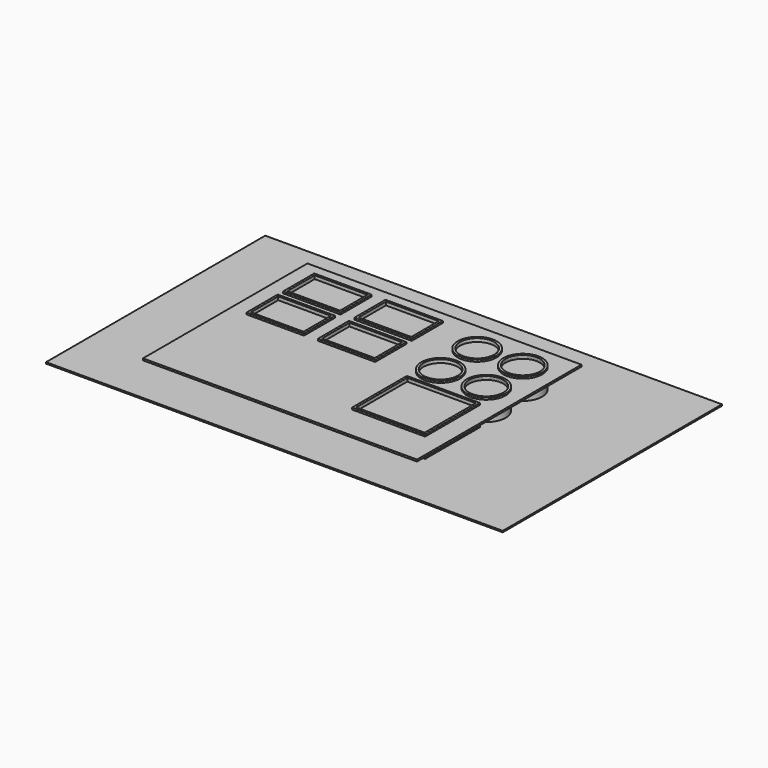
from build123d import *

# Parameters (mm, degrees)
F0_R      = 42.5
F0_R_2    = 37.5
F1_DEPTH  = 50
F0_W      = 159.9999964237
F0_H      = 149.9999964237
F0_W_2    = 150
F0_H_2    = 140
F0_W_3    = 125.4851952609
F0_H_3    = 85
F0_W_4    = 115.4851952609
F0_H_4    = 75
F0_W_5    = 125.485175848
F0_H_5    = 84.9999805871
F0_W_6    = 125.4851976451
F0_H_6    = 85.0000023842
F2_W      = 1000
F2_H      = 600
F3_DEPTH  = 3
F4_W      = 115.4851952609
F4_H      = 75
F5_DEPTH  = 42.7
F4_R      = 37.5
F4_W_2    = 150
F4_H_2    = 140
F6_R      = 3
F11_W     = 600
F11_H     = 450
F11_W_2   = 159.9999964237
F11_H_2   = 149.9999964237
F11_W_3   = 125.4851952609
F11_H_3   = 85
F11_W_4   = 125.4851976451
F11_H_4   = 85.0000023842
F11_W_5   = 125.485175848
F11_H_5   = 84.9999805871
F11_R     = 42.5
F11_R_2   = 37.5
F12_DEPTH = 4


with BuildPart() as f1:
    # F0 (on Top) → F1 (new body)
    with BuildSketch(Plane.XY):
        with Locations((-50, -50)):
            Circle(F0_R)
        with Locations((-50, -50)):
            Circle(F0_R_2, mode=Mode.SUBTRACT)
    extrude(amount=F1_DEPTH)


with BuildPart() as f1b:
    # F0 (on Top) → F1, piece 2 (new body)
    with BuildSketch(Plane.XY):
        with Locations((-50, 50)):
            Circle(F0_R)
        with Locations((-50, 50)):
            Circle(F0_R_2, mode=Mode.SUBTRACT)
    extrude(amount=F1_DEPTH)


with BuildPart() as f1c:
    # F0 (on Top) → F1, piece 3 (new body)
    with BuildSketch(Plane.XY):
        with Locations((50, 50)):
            Circle(F0_R)
        with Locations((50, 50)):
            Circle(F0_R_2, mode=Mode.SUBTRACT)
    extrude(amount=F1_DEPTH)


with BuildPart() as f1d:
    # F0 (on Top) → F1, piece 4 (new body)
    with BuildSketch(Plane.XY):
        with Locations((50, -50)):
            Circle(F0_R)
        with Locations((50, -50)):
            Circle(F0_R_2, mode=Mode.SUBTRACT)
    extrude(amount=F1_DEPTH)


with BuildPart() as f1e:
    # F0 (on Top) → F1, piece 5 (new body)
    with BuildSketch(Plane.XY):
        with Locations((0, -180)):
            Rectangle(F0_W, F0_H)
        with Locations((0, -180)):
            Rectangle(F0_W_2, F0_H_2, mode=Mode.SUBTRACT)
    extrude(amount=F1_DEPTH)


with BuildPart() as f1f:
    # F0 (on Top) → F1, piece 6 (new body)
    with BuildSketch(Plane.XY):
        with Locations((-377.9886692762, 50)):
            Rectangle(F0_W_3, F0_H_3)
        with Locations((-377.9886692762, 50)):
            Rectangle(F0_W_4, F0_H_4, mode=Mode.SUBTRACT)
    extrude(amount=F1_DEPTH)


with BuildPart() as f1g:
    # F0 (on Top) → F1, piece 7 (new body)
    with BuildSketch(Plane.XY):
        with Locations((-222.0113307238, 50)):
            Rectangle(F0_W_5, F0_H_5)
        with Locations((-222.0113307238, 50)):
            Rectangle(F0_W_4, F0_H_4, mode=Mode.SUBTRACT)
    extrude(amount=F1_DEPTH)


with BuildPart() as f1h:
    # F0 (on Top) → F1, piece 8 (new body)
    with BuildSketch(Plane.XY):
        with Locations((-377.9886692762, -50)):
            Rectangle(F0_W_3, F0_H_3)
        with Locations((-377.9886692762, -50)):
            Rectangle(F0_W_4, F0_H_4, mode=Mode.SUBTRACT)
    extrude(amount=F1_DEPTH)


with BuildPart() as f1i:
    # F0 (on Top) → F1, piece 9 (new body)
    with BuildSketch(Plane.XY):
        with Locations((-222.0113307238, -50)):
            Rectangle(F0_W_6, F0_H_6)
        with Locations((-222.0113307238, -50)):
            Rectangle(F0_W_4, F0_H_4, mode=Mode.SUBTRACT)
    extrude(amount=F1_DEPTH)


with BuildPart() as f3:
    # F2 (on Top) → F3 (new body)
    with BuildSketch(Plane.XY):
        with Locations((-150, -80)):
            Rectangle(F2_W, F2_H)
    extrude(amount=F3_DEPTH)


with BuildPart() as f5:
    # F4 (on Top) → F5 (new body)
    with BuildSketch(Plane.XY):
        with Locations((-377.9886692762, 50)):
            Rectangle(F4_W, F4_H)
    extrude(amount=F5_DEPTH)


with BuildPart() as f5b:
    # F4 (on Top) → F5, piece 2 (new body)
    with BuildSketch(Plane.XY):
        with Locations((-222.0113307238, 50)):
            Rectangle(F4_W, F4_H)
    extrude(amount=F5_DEPTH)


with BuildPart() as f5c:
    # F4 (on Top) → F5, piece 3 (new body)
    with BuildSketch(Plane.XY):
        with Locations((-222.0113307238, -50)):
            Rectangle(F4_W, F4_H)
    extrude(amount=F5_DEPTH)


with BuildPart() as f5d:
    # F4 (on Top) → F5, piece 4 (new body)
    with BuildSketch(Plane.XY):
        with Locations((-377.9886692762, -50)):
            Rectangle(F4_W, F4_H)
    extrude(amount=F5_DEPTH)


with BuildPart() as f5e:
    # F4 (on Top) → F5, piece 5 (new body)
    with BuildSketch(Plane.XY):
        with Locations((-50, 50)):
            Circle(F4_R)
    extrude(amount=F5_DEPTH)


with BuildPart() as f5f:
    # F4 (on Top) → F5, piece 6 (new body)
    with BuildSketch(Plane.XY):
        with Locations((-50, -50)):
            Circle(F4_R)
    extrude(amount=F5_DEPTH)


with BuildPart() as f5g:
    # F4 (on Top) → F5, piece 7 (new body)
    with BuildSketch(Plane.XY):
        with Locations((50, 50)):
            Circle(F4_R)
    extrude(amount=F5_DEPTH)


with BuildPart() as f5h:
    # F4 (on Top) → F5, piece 8 (new body)
    with BuildSketch(Plane.XY):
        with Locations((50, -50)):
            Circle(F4_R)
    extrude(amount=F5_DEPTH)


with BuildPart() as f5i:
    # F4 (on Top) → F5, piece 9 (new body)
    with BuildSketch(Plane.XY):
        with Locations((0, -180)):
            Rectangle(F4_W_2, F4_H_2)
    extrude(amount=F5_DEPTH)


with BuildPart() as f9:
    # F9: sweep along a path in F8
    with BuildLine(Plane(origin=(0, 0, 25), x_dir=(1, 0, 0), z_dir=(0, 0, -1))) as f9_path:
        Line((-159.2687427998, -50), (-154.2687427998, -50))
        ThreePointArc((-154.2687427998, -50), (-147.1976749879, -47.0710678119), (-144.2687427998, -40))
        Line((-144.2687427998, -40), (-144.2687427998, 40))
        ThreePointArc((-144.2687427998, 40), (-147.1976749879, 47.0710678119), (-154.2687427998, 50))
        Line((-154.2687427998, 50), (-159.2687427998, 50))
    # F6 (on face) → F9 (sweep)
    with BuildSketch(Plane.YZ.offset(-159.2687427998)):
        with Locations((50, 25)):
            Circle(F6_R)
    sweep(path=f9_path.line)


with BuildPart() as f12:
    # F11 (on offset) → F12 (new body)
    with BuildSketch(Plane.XY.offset(42)):
        with Locations((-177.7759447694, -104.8996657133)):
            Rectangle(F11_W, F11_H)
        with Locations((0, -180)):
            Rectangle(F11_W_2, F11_H_2, mode=Mode.SUBTRACT)
        with Locations((-377.9886692762, -50)):
            Rectangle(F11_W_3, F11_H_3, mode=Mode.SUBTRACT)
        with Locations((-222.0113307238, -50)):
            Rectangle(F11_W_4, F11_H_4, mode=Mode.SUBTRACT)
        with Locations((-377.9886692762, 50)):
            Rectangle(F11_W_3, F11_H_3, mode=Mode.SUBTRACT)
        with Locations((-222.0113307238, 50)):
            Rectangle(F11_W_5, F11_H_5, mode=Mode.SUBTRACT)
        with Locations((-50, -50)):
            Circle(F11_R, mode=Mode.SUBTRACT)
        with Locations((50, -50)):
            Circle(F11_R_2, mode=Mode.SUBTRACT)
        with Locations((-50, 50)):
            Circle(F11_R, mode=Mode.SUBTRACT)
        with Locations((50, 50)):
            Circle(F11_R_2, mode=Mode.SUBTRACT)
    extrude(amount=F12_DEPTH)


solid = Compound([f1.part, f1b.part, f1c.part, f1d.part, f1e.part, f1f.part, f1g.part, f1h.part, f1i.part, f3.part, f5.part, f5b.part, f5c.part, f5d.part, f5e.part, f5f.part, f5g.part, f5h.part, f5i.part, f9.part, f12.part])
